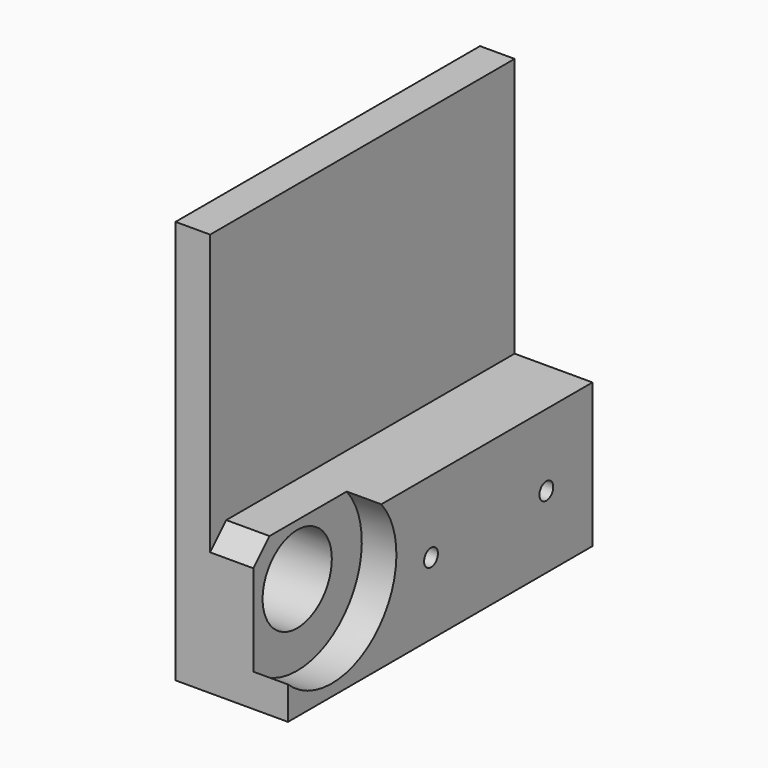
from build123d import *

# Parameters (mm, degrees)
F1_DEPTH       = 66
F2_R           = 7.5
F3_DEPTH       = 19.501
F5_DEPTH       = 6
F7_DEPTH       = 7.5
F9_D           = 3
F9_CSINK_D     = 7.5
F9_CSINK_ANGLE = 90


with BuildPart() as f1:
    # F0 (on Front) → F1 (new body)
    with BuildSketch(Plane.XZ):
        Polygon((0, 70), (0, 0), (19.5, 0), (19.5, 25), (6, 25), (6, 70), align=None)
    extrude(amount=F1_DEPTH)

    # F2 (on face) → F3 (cut, through all)
    with BuildSketch(Plane.YZ.offset(19.5)):
        with Locations((-56.5, 16)):
            Circle(F2_R)
    extrude(amount=-F3_DEPTH, mode=Mode.SUBTRACT)

    # F4 (on face) → F5 (cut)
    with BuildSketch(Plane.YZ.offset(19.5)):
        with BuildLine():
            Line((-45.776195, 25), (-66, 25))
            Line((-66, 25), (-66, 5.716518))
            ThreePointArc((-66, 5.716518), (-46.838862, 5.867754), (-45.776195, 25))
        make_face()
    extrude(amount=-F5_DEPTH, mode=Mode.SUBTRACT)

    # F6 (on face) → F7 (cut)
    with BuildSketch(Plane.YZ.offset(13.5)):
        Polygon((-62.5, 25), (-66, 25), (-66, 21.5), align=None)
    extrude(amount=-F7_DEPTH, mode=Mode.SUBTRACT)

    # F9 (through all)
    with Locations(Plane(origin=(0, 0, 0), x_dir=(0, -1, 0), z_dir=(-1, 0, 0))):
        with Locations((10, 12.5), (35, 12.5)):
            CounterSinkHole(F9_D / 2, F9_CSINK_D / 2, counter_sink_angle=F9_CSINK_ANGLE)


solid = f1.part
